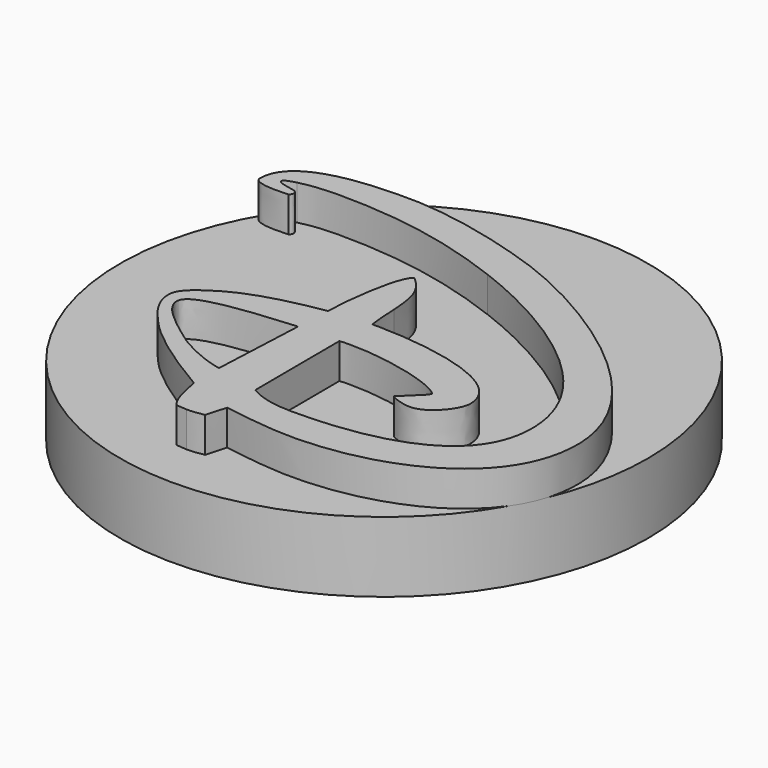
from build123d import *

# Parameters (mm, degrees)
F2_DEPTH = 1
F0_R     = 7.5
F3_DEPTH = 2


with BuildPart() as f2:
    # F1 (on Top) → F2 (new body)
    with BuildSketch(Plane.XY):
        with BuildLine():
            add(Edge.make_bspline(
                [(-5.77653, 3.4098657213), (-6.078156, 3.4098657213), (-6.434366, 3.4509587213), (-6.434366, 3.6293427213)],
                knots=[0, 0, 0, 0, 1, 1, 1, 1], degree=3))
            add(Edge.make_bspline(
                [(-5.44765, 3.4236117213), (-5.502397, 3.4236117213), (-5.625715, 3.4098657213), (-5.77653, 3.4098657213)],
                knots=[0, 0, 0, 0, 1, 1, 1, 1], degree=3))
            add(Edge.make_bspline(
                [(-5.392582, 3.5331847213), (-5.392582, 3.5056927213), (-5.406572, 3.4647037213), (-5.44765, 3.4236117213)],
                knots=[0, 0, 0, 0, 1, 1, 1, 1], degree=3))
            add(Edge.make_bspline(
                [(-5.461317, 3.6430057213), (-5.420317, 3.6155967213), (-5.392582, 3.5744217213), (-5.392582, 3.5331847213)],
                knots=[0, 0, 0, 0, 1, 1, 1, 1], degree=3))
            add(Edge.make_bspline(
                [(-5.982168, 3.8209967213), (-5.982168, 3.7251697213), (-5.516142, 3.6704147213), (-5.461317, 3.6430057213)],
                knots=[0, 0, 0, 0, 1, 1, 1, 1], degree=3))
            add(Edge.make_bspline(
                [(-5.666957, 3.9853877213), (-5.899848, 3.9305697213), (-5.982168, 3.8758147213), (-5.982168, 3.8209967213)],
                knots=[0, 0, 0, 0, 1, 1, 1, 1], degree=3))
            add(Edge.make_bspline(
                [(-4.543174, 4.1089547213), (-4.913132, 4.1089547213), (-5.296757, 4.0816077213), (-5.666957, 3.9853877213)],
                knots=[0, 0, 0, 0, 1, 1, 1, 1], degree=3))
            add(Edge.make_bspline(
                [(0.404403, 3.1769747213), (-1.212754, 3.7935677213), (-2.747726, 4.1089547213), (-4.543174, 4.1089547213)],
                knots=[0, 0, 0, 0, 1, 1, 1, 1], degree=3))
            add(Edge.make_bspline(
                [(5.790405, -1.9759082787), (5.790405, 0.4358937213), (2.706778, 2.2999987213), (0.404403, 3.1769747213)],
                knots=[0, 0, 0, 0, 1, 1, 1, 1], degree=3))
            add(Edge.make_bspline(
                [(1.15806, -4.6758282787), (2.665541, -4.6758282787), (5.790405, -4.4156052787), (5.790405, -1.9759082787)],
                knots=[0, 0, 0, 0, 1, 1, 1, 1], degree=3))
            add(Edge.make_bspline(
                [(-0.157621, -4.3746052787), (0.280919, -4.6484962787), (0.815596, -4.6758282787), (1.15806, -4.6758282787)],
                knots=[0, 0, 0, 0, 1, 1, 1, 1], degree=3))
            Line((-0.157621, -4.3746052787), (-0.171367, -1.3730612787))
            add(Edge.make_bspline(
                [(0.185092, -1.3595432787), (0.006935, -1.3595432787), (-0.061546, -1.3595432787), (-0.171367, -1.3730612787)],
                knots=[0, 0, 0, 0, 1, 1, 1, 1], degree=3))
            add(Edge.make_bspline(
                [(3.021999, -2.0719632787), (2.74787, -1.7432652787), (1.267881, -1.3595432787), (0.185092, -1.3595432787)],
                knots=[0, 0, 0, 0, 1, 1, 1, 1], degree=3))
            add(Edge.make_bspline(
                [(2.432649, -2.6887222787), (2.638297, -2.4556862787), (2.939669, -2.2502862787), (3.021999, -2.0719632787)],
                knots=[0, 0, 0, 0, 1, 1, 1, 1], degree=3))
            add(Edge.make_bspline(
                [(3.035745, -2.8668792787), (2.871189, -2.8668792787), (2.569713, -2.7982952787), (2.432649, -2.6887222787)],
                knots=[0, 0, 0, 0, 1, 1, 1, 1], degree=3))
            add(Edge.make_bspline(
                [(3.98147, -1.9211532787), (3.98147, -2.2502862787), (3.501776, -2.8668792787), (3.035745, -2.8668792787)],
                knots=[0, 0, 0, 0, 1, 1, 1, 1], degree=3))
            add(Edge.make_bspline(
                [(0.089264, -0.2902712787), (1.048487, -0.2902712787), (3.98147, -0.5371572787), (3.98147, -1.9211532787)],
                knots=[0, 0, 0, 0, 1, 1, 1, 1], degree=3))
            Line((0.089264, -0.2902712787), (-0.102638, -0.2902712787))
            add(Edge.make_bspline(
                [(-0.171367, 0.5731237213), (-0.157621, 0.2989957213), (-0.143875, 0.0109557213), (-0.102638, -0.2902712787)],
                knots=[0, 0, 0, 0, 1, 1, 1, 1], degree=3))
            add(Edge.make_bspline(
                [(-0.774214, 2.0394497213), (-0.267194, 1.6282567213), (-0.212356, 1.2034627213), (-0.171367, 0.5731237213)],
                knots=[0, 0, 0, 0, 1, 1, 1, 1], degree=3))
            add(Edge.make_bspline(
                [(-1.240245, 0.1619307213), (-1.2265, 0.2989957213), (-1.089435, 1.7653217213), (-0.774214, 2.0394497213)],
                knots=[0, 0, 0, 0, 1, 1, 1, 1], degree=3))
            Line((-1.240245, 0.1619307213), (-1.267737, -0.4000932787))
            add(Edge.make_bspline(
                [(-4.076904, -1.3730612787), (-3.432903, -0.8935332787), (-2.610661, -0.6329842787), (-1.267737, -0.4000932787)],
                knots=[0, 0, 0, 0, 1, 1, 1, 1], degree=3))
            add(Edge.make_bspline(
                [(-4.529347, -2.0034002787), (-4.529347, -1.7842542787), (-4.392281, -1.5922072787), (-4.076904, -1.3730612787)],
                knots=[0, 0, 0, 0, 1, 1, 1, 1], degree=3))
            add(Edge.make_bspline(
                [(-3.857759, -3.1957632787), (-4.17298, -2.8668792787), (-4.529347, -2.4283392787), (-4.529347, -2.0034002787)],
                knots=[0, 0, 0, 0, 1, 1, 1, 1], degree=3))
            add(Edge.make_bspline(
                [(-1.432044, -4.9637092787), (-2.679225, -4.2372972787), (-3.487803, -3.6207022787), (-3.857759, -3.1957632787)],
                knots=[0, 0, 0, 0, 1, 1, 1, 1], degree=3))
            add(Edge.make_bspline(
                [(-1.075834, -6.0325022787), (-1.281483, -5.7861052787), (-1.349818, -5.3886542787), (-1.432044, -4.9637092787)],
                knots=[0, 0, 0, 0, 1, 1, 1, 1], degree=3))
            Line((-1.075834, -6.0325022787), (-0.760468, -6.0599962787))
            add(Edge.make_bspline(
                [(-0.28094, -6.0052512787), (-0.445247, -6.0325022787), (-0.582312, -6.0599962787), (-0.760468, -6.0599962787)],
                knots=[0, 0, 0, 0, 1, 1, 1, 1], degree=3))
            add(Edge.make_bspline(
                [(-0.116384, -5.4296532787), (-0.157621, -5.5803042787), (-0.184864, -5.6902802787), (-0.28094, -6.0052512787)],
                knots=[0, 0, 0, 0, 1, 1, 1, 1], degree=3))
            add(Edge.make_bspline(
                [(1.884474, -5.6354552787), (1.254053, -5.6354552787), (0.500209, -5.5254782787), (-0.116384, -5.4296532787)],
                knots=[0, 0, 0, 0, 1, 1, 1, 1], degree=3))
            add(Edge.make_bspline(
                [(7.065098, -1.9486452787), (7.065098, -4.4429372787), (4.378918, -5.6354552787), (1.884474, -5.6354552787)],
                knots=[0, 0, 0, 0, 1, 1, 1, 1], degree=3))
            add(Edge.make_bspline(
                [(0.883931, 4.0816077213), (2.925924, 3.3413857213), (7.065098, 0.8743507213), (7.065098, -1.9486452787)],
                knots=[0, 0, 0, 0, 1, 1, 1, 1], degree=3))
            add(Edge.make_bspline(
                [(-3.268492, 4.9450037213), (-2.035057, 4.9450037213), (-0.458993, 4.5612187213), (0.883931, 4.0816077213)],
                knots=[0, 0, 0, 0, 1, 1, 1, 1], degree=3))
            add(Edge.make_bspline(
                [(-6.434366, 3.6293427213), (-6.434366, 4.8898547213), (-4.214217, 4.9450037213), (-3.268492, 4.9450037213)],
                knots=[0, 0, 0, 0, 1, 1, 1, 1], degree=3))
        make_face()
        with BuildLine():
            add(Edge.make_bspline(
                [(-1.322472, -1.4005532787), (-2.679225, -1.5101262787), (-4.186726, -1.6470242787), (-4.186726, -2.1269672787)],
                knots=[0, 0, 0, 0, 1, 1, 1, 1], degree=3))
            Line((-1.322472, -1.4005532787), (-1.44579, -4.0592332787))
            add(Edge.make_bspline(
                [(-3.17252, -3.2367522787), (-2.73398, -3.5932102787), (-2.07615, -3.9223222787), (-1.44579, -4.0592332787)],
                knots=[0, 0, 0, 0, 1, 1, 1, 1], degree=3))
            add(Edge.make_bspline(
                [(-4.186726, -2.1269672787), (-4.186726, -2.4966742787), (-3.556387, -2.9489602787), (-3.17252, -3.2367522787)],
                knots=[0, 0, 0, 0, 1, 1, 1, 1], degree=3))
        make_face(mode=Mode.SUBTRACT)
    extrude(amount=F2_DEPTH)

    # F0 (on Top) → F3 (join)
    with BuildSketch(Plane.XY):
        Circle(F0_R)
    extrude(amount=-F3_DEPTH)


solid = f2.part
